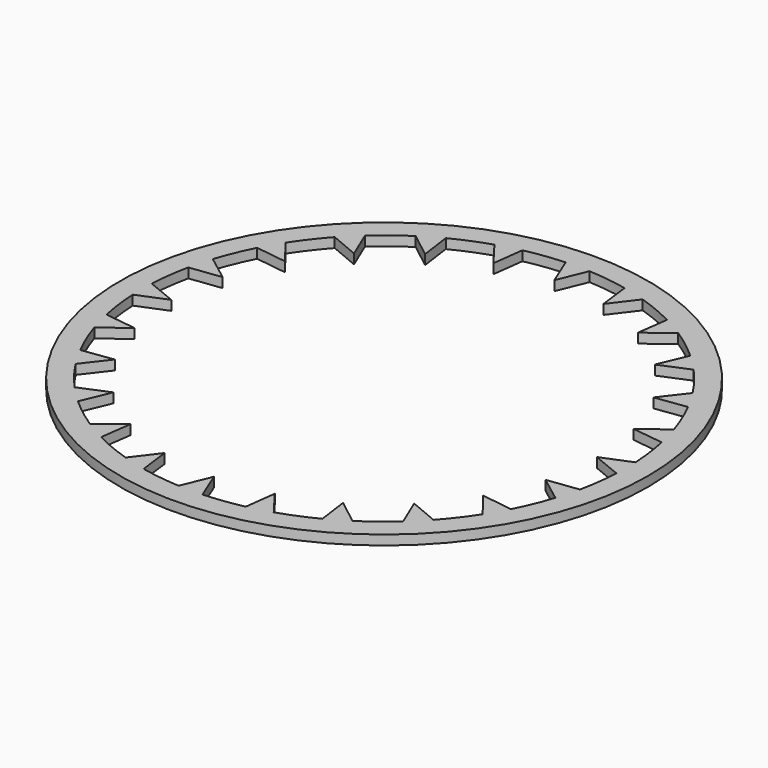
from build123d import *

# Parameters (mm, degrees)
F0_R     = 5.45
F1_DEPTH = 0.2


with BuildPart() as f1:
    # F0 (on Top) → F1 (new body)
    with BuildSketch(Plane.XY):
        Circle(F0_R)
        with BuildLine():
            ThreePointArc((4.993959, 0.245708), (4.99849, 0.122891), (5, 0))
            ThreePointArc((5, 0), (4.99849, -0.122891), (4.993959, -0.245708))
            ThreePointArc((4.993959, -0.245708), (4.957224, -0.652631), (4.887388, -1.055196))
            ThreePointArc((4.887388, -1.055196), (4.829629, -1.294095), (4.7602, -1.529867))
            ThreePointArc((4.7602, -1.529867), (4.619398, -1.913417), (4.447749, -2.28419))
            ThreePointArc((4.447749, -2.28419), (4.330127, -2.5), (4.202042, -2.709769))
            ThreePointArc((4.202042, -2.709769), (3.966767, -3.043807), (3.705004, -3.357521))
            ThreePointArc((3.705004, -3.357521), (3.535534, -3.535534), (3.357521, -3.705004))
            ThreePointArc((3.357521, -3.705004), (3.043807, -3.966767), (2.709769, -4.202042))
            ThreePointArc((2.709769, -4.202042), (2.5, -4.330127), (2.28419, -4.447749))
            ThreePointArc((2.28419, -4.447749), (1.913417, -4.619398), (1.529867, -4.7602))
            ThreePointArc((1.529867, -4.7602), (1.294095, -4.829629), (1.055196, -4.887388))
            ThreePointArc((1.055196, -4.887388), (0.652631, -4.957224), (0.245708, -4.993959))
            ThreePointArc((0.245708, -4.993959), (0, -5), (-0.245708, -4.993959))
            ThreePointArc((-0.245708, -4.993959), (-0.652631, -4.957224), (-1.055196, -4.887388))
            ThreePointArc((-1.055196, -4.887388), (-1.294095, -4.829629), (-1.529867, -4.7602))
            ThreePointArc((-1.529867, -4.7602), (-1.913417, -4.619398), (-2.28419, -4.447749))
            ThreePointArc((-2.28419, -4.447749), (-2.5, -4.330127), (-2.709769, -4.202042))
            ThreePointArc((-2.709769, -4.202042), (-3.043807, -3.966767), (-3.357521, -3.705004))
            ThreePointArc((-3.357521, -3.705004), (-3.535534, -3.535534), (-3.705004, -3.357521))
            ThreePointArc((-3.705004, -3.357521), (-3.966767, -3.043807), (-4.202042, -2.709769))
            ThreePointArc((-4.202042, -2.709769), (-4.330127, -2.5), (-4.447749, -2.28419))
            ThreePointArc((-4.447749, -2.28419), (-4.619398, -1.913417), (-4.7602, -1.529867))
            ThreePointArc((-4.7602, -1.529867), (-4.829629, -1.294095), (-4.887388, -1.055196))
            ThreePointArc((-4.887388, -1.055196), (-4.957224, -0.652631), (-4.993959, -0.245708))
            ThreePointArc((-4.993959, -0.245708), (-5, 0), (-4.993959, 0.245708))
            ThreePointArc((-4.993959, 0.245708), (-4.957224, 0.652631), (-4.887388, 1.055196))
            ThreePointArc((-4.887388, 1.055196), (-4.829629, 1.294095), (-4.7602, 1.529867))
            ThreePointArc((-4.7602, 1.529867), (-4.619398, 1.913417), (-4.447749, 2.28419))
            ThreePointArc((-4.447749, 2.28419), (-4.330127, 2.5), (-4.202042, 2.709769))
            ThreePointArc((-4.202042, 2.709769), (-3.966767, 3.043807), (-3.705004, 3.357521))
            ThreePointArc((-3.705004, 3.357521), (-3.535534, 3.535534), (-3.357521, 3.705004))
            ThreePointArc((-3.357521, 3.705004), (-3.043807, 3.966767), (-2.709769, 4.202042))
            ThreePointArc((-2.709769, 4.202042), (-2.5, 4.330127), (-2.28419, 4.447749))
            ThreePointArc((-2.28419, 4.447749), (-1.913417, 4.619398), (-1.529867, 4.7602))
            ThreePointArc((-1.529867, 4.7602), (-1.294095, 4.829629), (-1.055196, 4.887388))
            ThreePointArc((-1.055196, 4.887388), (-0.652631, 4.957224), (-0.245708, 4.993959))
            ThreePointArc((-0.245708, 4.993959), (0, 5), (0.245708, 4.993959))
            ThreePointArc((0.245708, 4.993959), (0.652631, 4.957224), (1.055196, 4.887388))
            ThreePointArc((1.055196, 4.887388), (1.294095, 4.829629), (1.529867, 4.7602))
            ThreePointArc((1.529867, 4.7602), (1.913417, 4.619398), (2.28419, 4.447749))
            ThreePointArc((2.28419, 4.447749), (2.5, 4.330127), (2.709769, 4.202042))
            ThreePointArc((2.709769, 4.202042), (3.043807, 3.966767), (3.357521, 3.705004))
            ThreePointArc((3.357521, 3.705004), (3.535534, 3.535534), (3.705004, 3.357521))
            ThreePointArc((3.705004, 3.357521), (3.966767, 3.043807), (4.202042, 2.709769))
            ThreePointArc((4.202042, 2.709769), (4.330127, 2.5), (4.447749, 2.28419))
            ThreePointArc((4.447749, 2.28419), (4.619398, 1.913417), (4.7602, 1.529867))
            ThreePointArc((4.7602, 1.529867), (4.829629, 1.294095), (4.887388, 1.055196))
            ThreePointArc((4.887388, 1.055196), (4.957224, 0.652631), (4.993959, 0.245708))
        make_face(mode=Mode.SUBTRACT)
        with BuildLine():
            Line((-2.196215, 3.803956), (-2.28419, 4.447749))
            ThreePointArc((-2.28419, 4.447749), (-2.5, 4.330127), (-2.709769, 4.202042))
            Line((-2.709769, 4.202042), (-2.196215, 3.803956))
        make_face()
        with BuildLine():
            Line((-1.136845, 4.242762), (-1.055196, 4.887388))
            ThreePointArc((-1.055196, 4.887388), (-1.294095, 4.829629), (-1.529867, 4.7602))
            Line((-1.529867, 4.7602), (-1.136845, 4.242762))
        make_face()
        with BuildLine():
            Line((-3.105917, 3.105917), (-3.357521, 3.705004))
            ThreePointArc((-3.357521, 3.705004), (-3.535534, 3.535534), (-3.705004, 3.357521))
            Line((-3.705004, 3.357521), (-3.105917, 3.105917))
        make_face()
        with BuildLine():
            Line((-3.803956, 2.196215), (-4.202042, 2.709769))
            ThreePointArc((-4.202042, 2.709769), (-4.330127, 2.5), (-4.447749, 2.28419))
            Line((-4.447749, 2.28419), (-3.803956, 2.196215))
        make_face()
        with BuildLine():
            Line((-4.242762, 1.136845), (-4.7602, 1.529867))
            ThreePointArc((-4.7602, 1.529867), (-4.829629, 1.294095), (-4.887388, 1.055196))
            Line((-4.887388, 1.055196), (-4.242762, 1.136845))
        make_face()
        with BuildLine():
            Line((-4.39243, 0), (-4.993959, 0.245708))
            ThreePointArc((-4.993959, 0.245708), (-5, 0), (-4.993959, -0.245708))
            Line((-4.993959, -0.245708), (-4.39243, 0))
        make_face()
        with BuildLine():
            ThreePointArc((-4.887388, -1.055196), (-4.829629, -1.294095), (-4.7602, -1.529867))
            Line((-4.7602, -1.529867), (-4.242762, -1.136845))
            Line((-4.242762, -1.136845), (-4.887388, -1.055196))
        make_face()
        with BuildLine():
            ThreePointArc((-4.447749, -2.28419), (-4.330127, -2.5), (-4.202042, -2.709769))
            Line((-4.202042, -2.709769), (-3.803956, -2.196215))
            Line((-3.803956, -2.196215), (-4.447749, -2.28419))
        make_face()
        with BuildLine():
            ThreePointArc((-3.705004, -3.357521), (-3.535534, -3.535534), (-3.357521, -3.705004))
            Line((-3.357521, -3.705004), (-3.105917, -3.105917))
            Line((-3.105917, -3.105917), (-3.705004, -3.357521))
        make_face()
        with BuildLine():
            ThreePointArc((-2.709769, -4.202042), (-2.5, -4.330127), (-2.28419, -4.447749))
            Line((-2.28419, -4.447749), (-2.196215, -3.803956))
            Line((-2.196215, -3.803956), (-2.709769, -4.202042))
        make_face()
        with BuildLine():
            ThreePointArc((-1.529867, -4.7602), (-1.294095, -4.829629), (-1.055196, -4.887388))
            Line((-1.055196, -4.887388), (-1.136845, -4.242762))
            Line((-1.136845, -4.242762), (-1.529867, -4.7602))
        make_face()
        with BuildLine():
            ThreePointArc((-0.245708, -4.993959), (0, -5), (0.245708, -4.993959))
            Line((0.245708, -4.993959), (0, -4.39243))
            Line((0, -4.39243), (-0.245708, -4.993959))
        make_face()
        with BuildLine():
            ThreePointArc((1.055196, -4.887388), (1.294095, -4.829629), (1.529867, -4.7602))
            Line((1.529867, -4.7602), (1.136845, -4.242762))
            Line((1.136845, -4.242762), (1.055196, -4.887388))
        make_face()
        with BuildLine():
            ThreePointArc((2.28419, -4.447749), (2.5, -4.330127), (2.709769, -4.202042))
            Line((2.709769, -4.202042), (2.196215, -3.803956))
            Line((2.196215, -3.803956), (2.28419, -4.447749))
        make_face()
        with BuildLine():
            ThreePointArc((3.357521, -3.705004), (3.535534, -3.535534), (3.705004, -3.357521))
            Line((3.705004, -3.357521), (3.105917, -3.105917))
            Line((3.105917, -3.105917), (3.357521, -3.705004))
        make_face()
        with BuildLine():
            ThreePointArc((4.202042, -2.709769), (4.330127, -2.5), (4.447749, -2.28419))
            Line((4.447749, -2.28419), (3.803956, -2.196215))
            Line((3.803956, -2.196215), (4.202042, -2.709769))
        make_face()
        with BuildLine():
            ThreePointArc((4.7602, -1.529867), (4.829629, -1.294095), (4.887388, -1.055196))
            Line((4.887388, -1.055196), (4.242762, -1.136845))
            Line((4.242762, -1.136845), (4.7602, -1.529867))
        make_face()
        with BuildLine():
            ThreePointArc((4.993959, -0.245708), (4.99849, -0.122891), (5, 0))
            ThreePointArc((5, 0), (4.99849, 0.122891), (4.993959, 0.245708))
            Line((4.993959, 0.245708), (4.39243, 0))
            Line((4.39243, 0), (4.993959, -0.245708))
        make_face()
        with BuildLine():
            Line((4.242762, 1.136845), (4.887388, 1.055196))
            ThreePointArc((4.887388, 1.055196), (4.829629, 1.294095), (4.7602, 1.529867))
            Line((4.7602, 1.529867), (4.242762, 1.136845))
        make_face()
        with BuildLine():
            Line((3.803956, 2.196215), (4.447749, 2.28419))
            ThreePointArc((4.447749, 2.28419), (4.330127, 2.5), (4.202042, 2.709769))
            Line((4.202042, 2.709769), (3.803956, 2.196215))
        make_face()
        with BuildLine():
            Line((3.105917, 3.105917), (3.705004, 3.357521))
            ThreePointArc((3.705004, 3.357521), (3.535534, 3.535534), (3.357521, 3.705004))
            Line((3.357521, 3.705004), (3.105917, 3.105917))
        make_face()
        with BuildLine():
            Line((2.196215, 3.803956), (2.709769, 4.202042))
            ThreePointArc((2.709769, 4.202042), (2.5, 4.330127), (2.28419, 4.447749))
            Line((2.28419, 4.447749), (2.196215, 3.803956))
        make_face()
        with BuildLine():
            Line((1.136845, 4.242762), (1.529867, 4.7602))
            ThreePointArc((1.529867, 4.7602), (1.294095, 4.829629), (1.055196, 4.887388))
            Line((1.055196, 4.887388), (1.136845, 4.242762))
        make_face()
        with BuildLine():
            Line((0, 4.39243), (0.245708, 4.993959))
            ThreePointArc((0.245708, 4.993959), (0, 5), (-0.245708, 4.993959))
            Line((-0.245708, 4.993959), (0, 4.39243))
        make_face()
    extrude(amount=F1_DEPTH)


solid = f1.part
